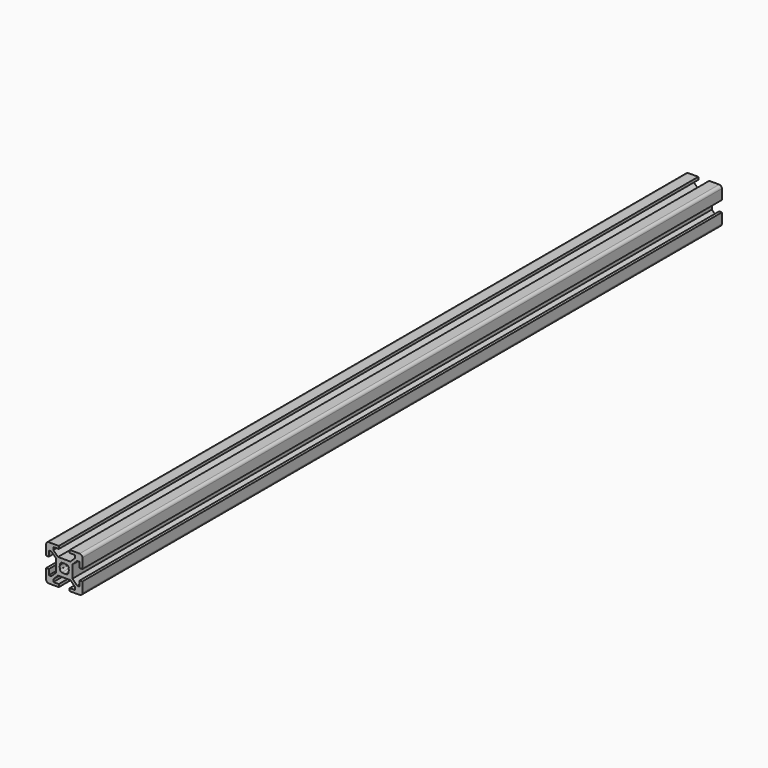
from build123d import *

# Parameters (mm, degrees)
F1_DEPTH = 440


with BuildPart() as f1:
    # F0 (on Front) → F1 (new body)
    with BuildSketch(Plane.XZ):
        with BuildLine():
            Line((3, -10), (8.5, -10))
            ThreePointArc((8.5, -10), (9.5606601718, -9.5606601718), (10, -8.5))
            Line((10, -8.5), (10, -3))
            Line((10, -3), (8.5, -3))
            Line((8.5, -3), (8.5, -6))
            Line((8.5, -6), (7.0606601718, -6))
            Line((7.0606601718, -6), (4.5, -3.4393398282))
            Line((4.5, -3.4393398282), (4.5, 3.4393398282))
            Line((4.5, 3.4393398282), (7.0606601718, 6))
            Line((7.0606601718, 6), (8.5, 6))
            Line((8.5, 6), (8.5, 3))
            Line((8.5, 3), (10, 3))
            Line((10, 3), (10, 8.5))
            ThreePointArc((10, 8.5), (9.5606601718, 9.5606601718), (8.5, 10))
            Line((8.5, 10), (3, 10))
            Line((3, 10), (3, 8.5))
            Line((3, 8.5), (6, 8.5))
            Line((6, 8.5), (6, 7.0606601718))
            Line((6, 7.0606601718), (3.4393398282, 4.5))
            Line((3.4393398282, 4.5), (-3.4393398282, 4.5))
            Line((-3.4393398282, 4.5), (-6, 7.0606601718))
            Line((-6, 7.0606601718), (-6, 8.5))
            Line((-6, 8.5), (-3, 8.5))
            Line((-3, 8.5), (-3, 10))
            Line((-3, 10), (-8.5, 10))
            ThreePointArc((-8.5, 10), (-9.5606601718, 9.5606601718), (-10, 8.5))
            Line((-10, 8.5), (-10, 3))
            Line((-10, 3), (-8.5, 3))
            Line((-8.5, 3), (-8.5, 6))
            Line((-8.5, 6), (-7.0606601718, 6))
            Line((-7.0606601718, 6), (-4.5, 3.4393398282))
            Line((-4.5, 3.4393398282), (-4.5, -3.4393398282))
            Line((-4.5, -3.4393398282), (-7.0606601718, -6))
            Line((-7.0606601718, -6), (-8.5, -6))
            Line((-8.5, -6), (-8.5, -3))
            Line((-8.5, -3), (-10, -3))
            Line((-10, -3), (-10, -8.5))
            ThreePointArc((-10, -8.5), (-9.5606601718, -9.5606601718), (-8.5, -10))
            Line((-8.5, -10), (-3, -10))
            Line((-3, -10), (-3, -8.5))
            Line((-3, -8.5), (-6, -8.5))
            Line((-6, -8.5), (-6, -7.0606601718))
            Line((-6, -7.0606601718), (-3.4393398282, -4.5))
            Line((-3.4393398282, -4.5), (3.4393398282, -4.5))
            Line((3.4393398282, -4.5), (6, -7.0606601718))
            Line((6, -7.0606601718), (6, -8.5))
            Line((6, -8.5), (3, -8.5))
            Line((3, -8.5), (3, -10))
        make_face()
        with BuildLine():
            ThreePointArc((-1.1560121095, 2.2166722813), (0, 2.5), (1.1560121095, 2.2166722813))
            Line((1.1560121095, 2.2166722813), (1.4393398282, 2.5))
            Line((1.4393398282, 2.5), (2.5, 1.4393398282))
            Line((2.5, 1.4393398282), (2.2166722813, 1.1560121095))
            ThreePointArc((2.2166722813, 1.1560121095), (2.5, 0), (2.2166722813, -1.1560121095))
            Line((2.2166722813, -1.1560121095), (2.5, -1.4393398282))
            Line((2.5, -1.4393398282), (1.4393398282, -2.5))
            Line((1.4393398282, -2.5), (1.1560121095, -2.2166722813))
            ThreePointArc((1.1560121095, -2.2166722813), (0, -2.5), (-1.1560121095, -2.2166722813))
            Line((-1.1560121095, -2.2166722813), (-1.4393398282, -2.5))
            Line((-1.4393398282, -2.5), (-2.5, -1.4393398282))
            Line((-2.5, -1.4393398282), (-2.2166722813, -1.1560121095))
            ThreePointArc((-2.2166722813, -1.1560121095), (-2.5, 0), (-2.2166722813, 1.1560121095))
            Line((-2.2166722813, 1.1560121095), (-2.5, 1.4393398282))
            Line((-2.5, 1.4393398282), (-1.4393398282, 2.5))
            Line((-1.4393398282, 2.5), (-1.1560121095, 2.2166722813))
        make_face(mode=Mode.SUBTRACT)
    extrude(amount=F1_DEPTH)


solid = f1.part
